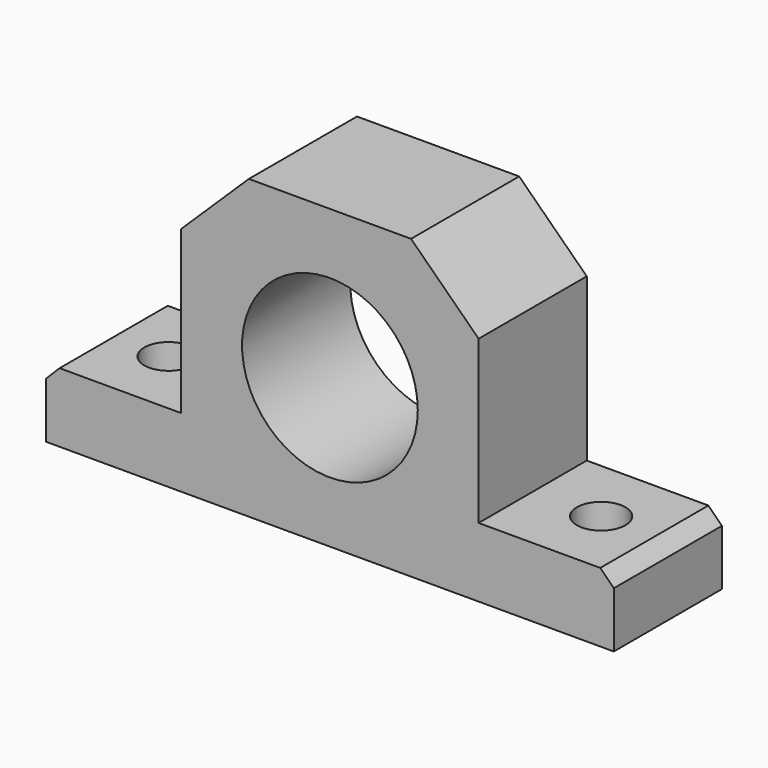
from build123d import *

# Parameters (mm, degrees)
F0_R     = 32.5
F1_DEPTH = 50
F2_SIZE  = 5
F4_D     = 18


with BuildPart() as f1:
    # F0 (on Front) → F1 (new body)
    with BuildSketch(Plane.XZ):
        Polygon((30, 55), (0, 55), (-30, 55), (-55, 30.6), (-55, -29.4), (-105, -29.4), (-105, -55), (0, -55), (105, -55), (105, -29.4), (55, -29.4), (55, 30.6), align=None)
        Circle(F0_R, mode=Mode.SUBTRACT)
    extrude(amount=-F1_DEPTH)

    # F2
    f2_edges = [f1.edges().sort_by_distance(p)[0] for p in [
        (105, 25, -29.4),
        (-105, 25, -29.4),
    ]]
    chamfer(f2_edges, length=F2_SIZE)

    # F4 (through all)
    with Locations(Plane(origin=(0, 0, -55), x_dir=(1, 0, 0), z_dir=(0, 0, -1))):
        with Locations((-80, -25.4), (80, -25.4)):
            Hole(F4_D / 2)


solid = f1.part
